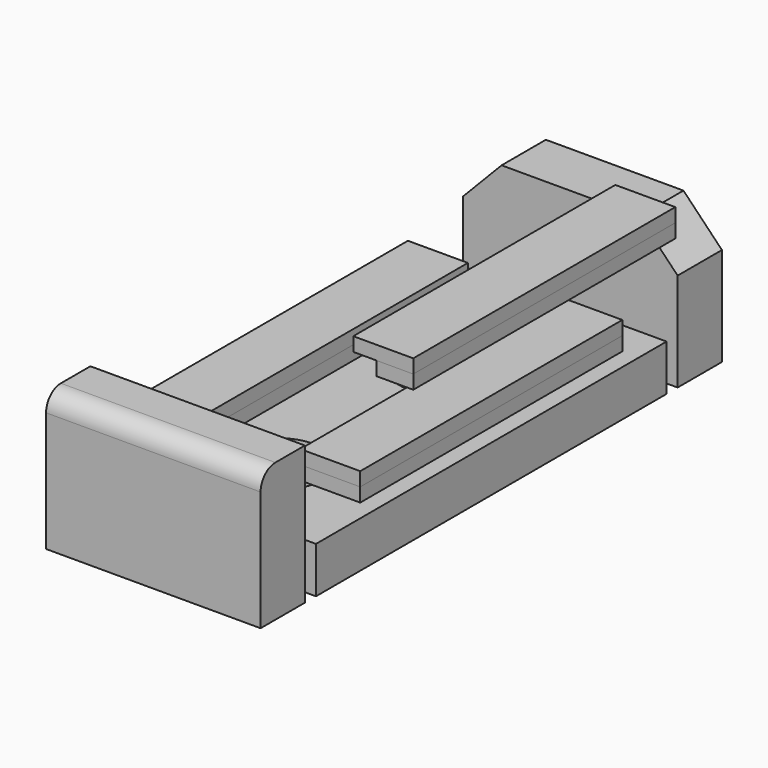
from build123d import *

# Parameters (mm, degrees)
F0_R      = 3.75
F1_DEPTH  = 12
F3_W      = 46.5
F3_H      = 10
F4_DEPTH  = 95
F6_W      = 46.5
F6_H      = 30
F7_DEPTH  = 12
F8_R      = 4
F10_W     = 13
F10_H     = 71
F11_DEPTH = 3
F14_R     = 9.5
F15_DEPTH = 10
F18_DEPTH = 71
F19_DEPTH = 71


with BuildPart() as f1:
    # F0 (on Front) → F1 (new body)
    with BuildSketch(Plane.XZ):
        Polygon((0, 21.3680540694), (0, 0), (46.5, 0), (46.5, 21.3680540694), (38.1639632048, 30), (23.25, 30), (8.3360367952, 30), align=None)
        with Locations((23.25, 15.6911602244)):
            Circle(F0_R, mode=Mode.SUBTRACT)
    extrude(amount=F1_DEPTH)


with BuildPart() as f4:
    # F3 (on offset) → F4 (new body)
    with BuildSketch(Plane.XZ.offset(15)):
        with Locations((23.25, 5)):
            Rectangle(F3_W, F3_H)
    extrude(amount=F4_DEPTH)

    # F14 (on face) → F15 (cut, through all)
    with BuildSketch(Plane(origin=(0, 0, 0), x_dir=(1, 0, 0), z_dir=(0, 0, -1))):
        with Locations((23.25, 91.1)):
            Circle(F14_R)
        with Locations((23.25, 46.5)):
            Circle(F14_R)
    extrude(amount=-F15_DEPTH, mode=Mode.SUBTRACT)


with BuildPart() as f7:
    # F6 (on offset) → F7 (new body)
    with BuildSketch(Plane.XZ.offset(113)):
        with Locations((23.25, 15)):
            Rectangle(F6_W, F6_H)
    extrude(amount=F7_DEPTH)

    # F8
    f8_edges = [f7.edges().sort_by_distance(p)[0] for p in [
        (23.25, -125, 30),
    ]]
    fillet(f8_edges, radius=F8_R)


with BuildPart() as f11:
    # F10 (on offset) → F11 (new body)
    with BuildSketch(Plane.XY.offset(13)):
        with Locations((40, -62.5)):
            Rectangle(F10_W, F10_H)
    extrude(amount=F11_DEPTH)


with BuildPart() as f11b:
    # F10 (on offset) → F11, piece 2 (new body)
    with BuildSketch(Plane.XY.offset(13)):
        with Locations((6.5324707329, -62.5)):
            Rectangle(F10_W, F10_H)
    extrude(amount=F11_DEPTH)


with BuildPart() as f13_1:
    # F13: instance of F11
    add(f11.part.mirror(Plane.XY.offset(16)))


with BuildPart() as f13_2:
    # F13: instance of F11b
    add(f11b.part.mirror(Plane.XY.offset(16)))


with BuildPart() as f18:
    # F17 (on offset) → F18 (new body)
    with BuildSketch(Plane(origin=(0, -27, 0), x_dir=(-1, 0, 0), z_dir=(0, 1, 0))):
        Polygon((-53.3646971181, 41.2717601284), (-57.9912078685, 41.2717601284), (-57.9912078685, 38.2717601284), (-53.3646971181, 38.2717601284), (-49.9912078685, 38.2717601284), (-49.9912078685, 41.2717601284), align=None)
    extrude(amount=-F18_DEPTH)


with BuildPart() as f19:
    # F17 (on offset) → F19 (new body)
    with BuildSketch(Plane(origin=(0, -27, 0), x_dir=(-1, 0, 0), z_dir=(0, 1, 0))):
        Polygon((-44.9912078685, 41.2717601284), (-44.9912078685, 44.2717601284), (-57.9912078685, 44.2717601284), (-57.9912078685, 41.2717601284), (-53.3646971181, 41.2717601284), (-49.9912078685, 41.2717601284), align=None)
    extrude(amount=-F19_DEPTH)


solid = Compound([f1.part, f4.part, f7.part, f11.part, f11b.part, f13_1.part, f13_2.part, f18.part, f19.part])
